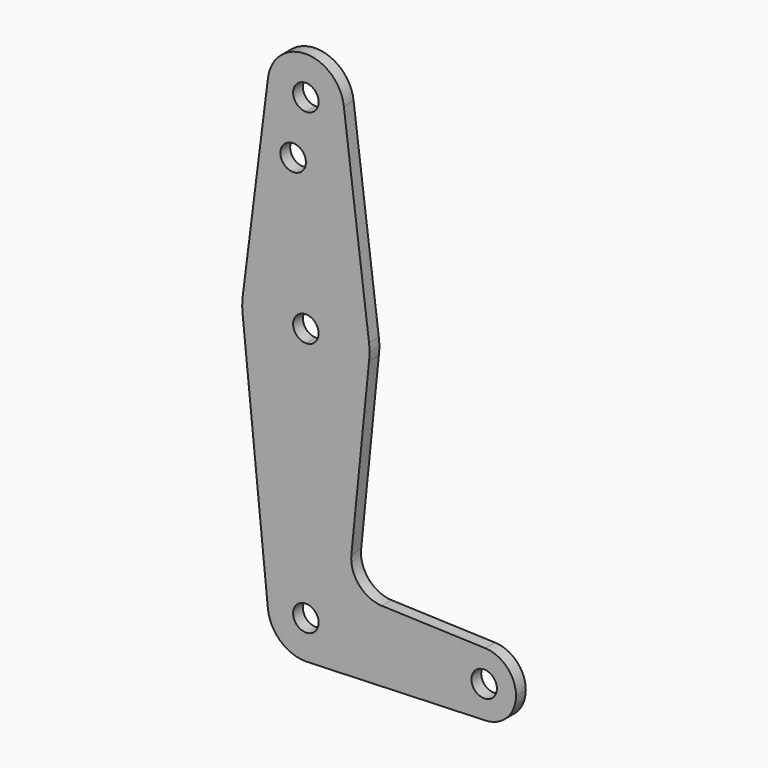
from build123d import *

# Parameters (mm, degrees)
F0_R     = 3.175
F1_DEPTH = 3.048


with BuildPart() as f1:
    # F0 (on Front) → F1 (new body)
    with BuildSketch(Plane.XZ):
        with BuildLine():
            ThreePointArc((9.525, -63.5), (6.7351920908, -56.7648079092), (0, -53.975))
            Line((0, -53.975), (0, -60.325))
            ThreePointArc((0, -60.325), (2.2450640303, -61.2549359697), (3.175, -63.5))
            Line((3.175, -63.5), (9.525, -63.5))
        make_face()
        with BuildLine():
            Line((11.3392779306, -45.9106880431), (15.7504758485, -1.984473619))
            ThreePointArc((15.7504758485, -1.984473619), (10.5002882412, -11.906282873), (0, -15.875))
            Line((0, -15.875), (0, -53.975))
            ThreePointArc((0, -53.975), (6.7351920908, -56.7648079092), (9.525, -63.5))
            Line((9.525, -63.5), (36.5125, -63.5))
            ThreePointArc((36.5125, -63.5), (38.9380895153, -57.7883672161), (44.7324052746, -55.5675253854))
            Line((44.7324052746, -55.5675253854), (18.9668335633, -54.6502412204))
            ThreePointArc((18.9668335633, -54.6502412204), (13.259918966, -51.9327237146), (11.3392779306, -45.9106880431))
        make_face()
        with BuildLine():
            Line((36.5125, -63.5), (9.525, -63.5))
            ThreePointArc((9.525, -63.5), (6.9705567315, -69.9912990883), (0.6773435479, -73.000885786))
            Line((0.6773435479, -73.000885786), (44.7324052746, -71.4324746146))
            ThreePointArc((44.7324052746, -71.4324746146), (38.9380895153, -69.2116327839), (36.5125, -63.5))
        make_face()
        with BuildLine():
            Line((0, -60.325), (0, -53.975))
            ThreePointArc((0, -53.975), (-7.063929059, -57.1104357543), (-9.4772553384, -64.4525))
            ThreePointArc((-9.4772553384, -64.4525), (-6.3895642457, -70.563929059), (0, -73.025))
            Line((0, -73.025), (0.6773435479, -73.000885786))
            ThreePointArc((0.6773435479, -73.000885786), (6.9705567315, -69.9912990883), (9.525, -63.5))
            Line((9.525, -63.5), (3.175, -63.5))
            ThreePointArc((3.175, -63.5), (-2.2450640303, -65.7450640303), (0, -60.325))
        make_face()
        with BuildLine():
            ThreePointArc((52.3875, -63.5), (50.1616327839, -57.9880895153), (44.7324052746, -55.5675253854))
            ThreePointArc((44.7324052746, -55.5675253854), (38.9380895153, -57.7883672161), (36.5125, -63.5))
            ThreePointArc((36.5125, -63.5), (38.9380895153, -69.2116327839), (44.7324052746, -71.4324746146))
            ThreePointArc((44.7324052746, -71.4324746146), (50.1616327839, -69.0119104847), (52.3875, -63.5))
        make_face()
        with BuildLine():
            ThreePointArc((47.625, -63.5), (44.45, -66.675), (41.275, -63.5))
            ThreePointArc((41.275, -63.5), (44.45, -60.325), (47.625, -63.5))
        make_face(mode=Mode.SUBTRACT)
        with BuildLine():
            Line((0, -53.975), (0, -15.875))
            ThreePointArc((0, -15.875), (-10.6492737429, -11.7732150982), (-15.7954255641, -1.5874999998))
            Line((-15.7954255641, -1.5874999998), (-9.4772553384, -64.4525))
            ThreePointArc((-9.4772553384, -64.4525), (-7.063929059, -57.1104357543), (0, -53.975))
        make_face()
        with BuildLine():
            Line((0, 3.175), (0, 15.875))
            ThreePointArc((0, 15.875), (-10.5002882412, 11.906282873), (-15.7504758485, 1.984473619))
            ThreePointArc((-15.7504758485, 1.984473619), (-15.8737431902, 0.1997551822), (-15.7954255641, -1.5874999998))
            ThreePointArc((-15.7954255641, -1.5874999998), (-10.6492737429, -11.7732150982), (0, -15.875))
            Line((0, -15.875), (0, -3.175))
            ThreePointArc((0, -3.175), (-3.175, 0), (0, 3.175))
        make_face()
        with BuildLine():
            ThreePointArc((15.7504758485, -1.984473619), (15.843838378, -0.9941883384), (15.875, 0))
            ThreePointArc((15.875, 0), (15.843838378, 0.9941883384), (15.7504758485, 1.984473619))
            ThreePointArc((15.7504758485, 1.984473619), (10.5002882412, 11.906282873), (0, 15.875))
            Line((0, 15.875), (0, 3.175))
            ThreePointArc((0, 3.175), (2.2450640303, 2.2450640303), (3.175, 0))
            ThreePointArc((3.175, 0), (2.2450640303, -2.2450640303), (0, -3.175))
            Line((0, -3.175), (0, -15.875))
            ThreePointArc((0, -15.875), (10.5002882412, -11.906282873), (15.7504758485, -1.984473619))
        make_face()
        with BuildLine():
            ThreePointArc((0, 15.875), (10.5002882412, 11.906282873), (15.7504758485, 1.984473619))
            Line((15.7504758485, 1.984473619), (9.4596647919, 51.9137176596))
            ThreePointArc((9.4596647919, 51.9137176596), (9.508652169, 51.3578162141), (9.525, 50.8))
            ThreePointArc((9.525, 50.8), (6.7351920908, 44.0648079092), (0, 41.275))
            Line((0, 41.275), (0, 36.5252))
            Line((0, 36.5252), (0, 15.875))
        make_face()
        with BuildLine():
            ThreePointArc((-15.7504758485, 1.984473619), (-10.5002882412, 11.906282873), (0, 15.875))
            Line((0, 15.875), (0, 36.5252))
            Line((0, 36.5252), (0, 41.275))
            ThreePointArc((0, 41.275), (-7.1180680563, 44.470803199), (-9.4596647919, 51.9137176596))
            Line((-9.4596647919, 51.9137176596), (-15.7504758485, 1.984473619))
        make_face()
        with Locations((-3.175, 36.5252)):
            Circle(F0_R, mode=Mode.SUBTRACT)
        with BuildLine():
            ThreePointArc((9.525, 50.8), (9.508652169, 51.3578162141), (9.4596647919, 51.9137176596))
            ThreePointArc((9.4596647919, 51.9137176596), (0, 60.325), (-9.4596647919, 51.9137176596))
            ThreePointArc((-9.4596647919, 51.9137176596), (-7.1180680563, 44.470803199), (0, 41.275))
            ThreePointArc((0, 41.275), (6.7351920908, 44.0648079092), (9.525, 50.8))
        make_face()
        with BuildLine():
            ThreePointArc((3.175, 50.8), (2.2450640303, 48.5549359697), (0, 47.625))
            ThreePointArc((0, 47.625), (-2.2450640303, 53.0450640303), (3.175, 50.8))
        make_face(mode=Mode.SUBTRACT)
    extrude(amount=F1_DEPTH)


solid = f1.part
